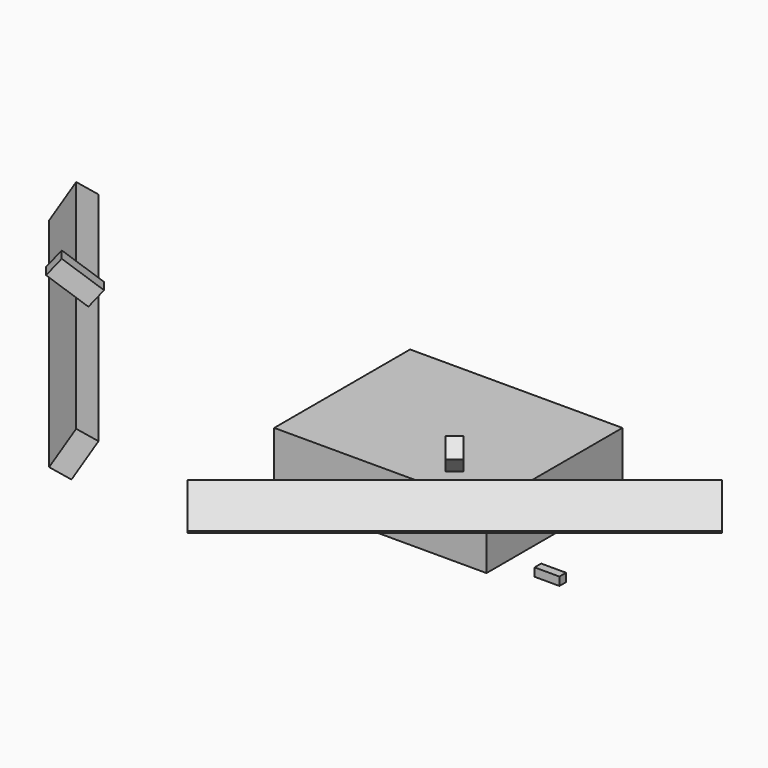
from build123d import *

# Parameters (mm, degrees)
F0_W      = 325
F0_H      = 260
F1_DEPTH  = 90
F6_DEPTH  = 10.795
F8_DEPTH  = 319.405
F10_COUNT = 2
F10_ANGLE = 90
F13_W     = 38.1
F13_H     = 12.7
F14_DEPTH = 6.35


with BuildPart() as f1:
    # F0 (on Top) → F1 (new body)
    with BuildSketch(Plane.XY):
        with Locations((-0.0035, -0.0028)):
            Rectangle(F0_W, F0_H)
    extrude(amount=F1_DEPTH)


with BuildPart() as f6:
    # F5 (on face) → F6 (new body, symmetric)
    with BuildSketch(Plane(origin=(0, 0, 0), x_dir=(-0.780869, -0.624695, 0), z_dir=(-0.624695, 0.780869, 0))):
        Polygon((411.488611, 281.141435), (430.182803, 258.862565), (480.772378, 301.312258), (462.078186, 323.591129), align=None)
    extrude(amount=F6_DEPTH, both=True)


with BuildPart() as f8:
    # F7 (on face) → F8 (new body, symmetric)
    with BuildSketch(Plane(origin=(0, 0, 0), x_dir=(-0.780869, -0.624695, 0), z_dir=(-0.624695, 0.780869, 0))):
        Polygon((450.407596, 186.64672), (477.117719, 203.337057), (444.813841, 255.034069), (418.103718, 238.343732), align=None)
    extrude(amount=F8_DEPTH, both=True)


with BuildPart() as f10_1:
    # F10: instance of F6
    add(f6.part.rotate(Axis((5.956928, 4.765542, 142.215524), (0, 0, 1)), 1 * F10_ANGLE / (F10_COUNT - 1)))


with BuildPart() as f10_2:
    # F10: instance of F8
    add(f8.part.rotate(Axis((5.956928, 4.765542, 142.215524), (0, 0, 1)), 1 * F10_ANGLE / (F10_COUNT - 1)))


with BuildPart() as f14:
    # F13 (on offset) → F14 (new body, symmetric)
    with BuildSketch(Plane.XZ.offset(95.25)):
        with Locations((232.3465, 6.35)):
            Rectangle(F13_W, F13_H)
    extrude(amount=F14_DEPTH, both=True)


solid = Compound([f1.part, f6.part, f8.part, f10_1.part, f10_2.part, f14.part])
